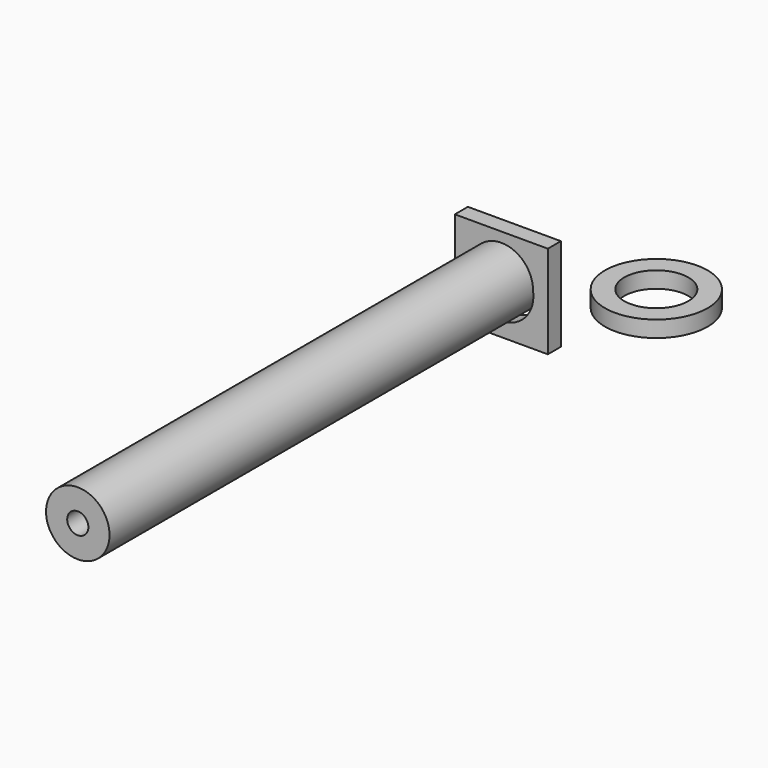
from build123d import *

# Parameters (mm, degrees)
F0_R     = 49.5
F0_R_2   = 16.5
F1_DEPTH = 850.9
F2_R     = 80
F2_R_2   = 50
F4_DEPTH = 25.4
F3_W     = 145.0086
F3_H     = 145
F3_R     = 50
F5_DEPTH = 25.4


with BuildPart() as f1:
    # F0 (on Front) → F1 (new body)
    with BuildSketch(Plane.XZ):
        Circle(F0_R)
        Circle(F0_R_2, mode=Mode.SUBTRACT)
    extrude(amount=F1_DEPTH)


with BuildPart() as f4:
    # F2 (on Top) → F4 (new body)
    with BuildSketch(Plane.XY):
        with Locations((195.01467, 32.865699)):
            Circle(F2_R)
        with Locations((195.01467, 32.865699)):
            Circle(F2_R_2, mode=Mode.SUBTRACT)
    extrude(amount=F4_DEPTH)


with BuildPart() as f5:
    # F3 (on Front) → F5 (new body)
    with BuildSketch(Plane.XZ):
        with Locations((0, -7.567689)):
            Rectangle(F3_W, F3_H)
        with Locations((0, -7.567689)):
            Circle(F3_R, mode=Mode.SUBTRACT)
    extrude(amount=F5_DEPTH)


solid = Compound([f1.part, f4.part, f5.part])
